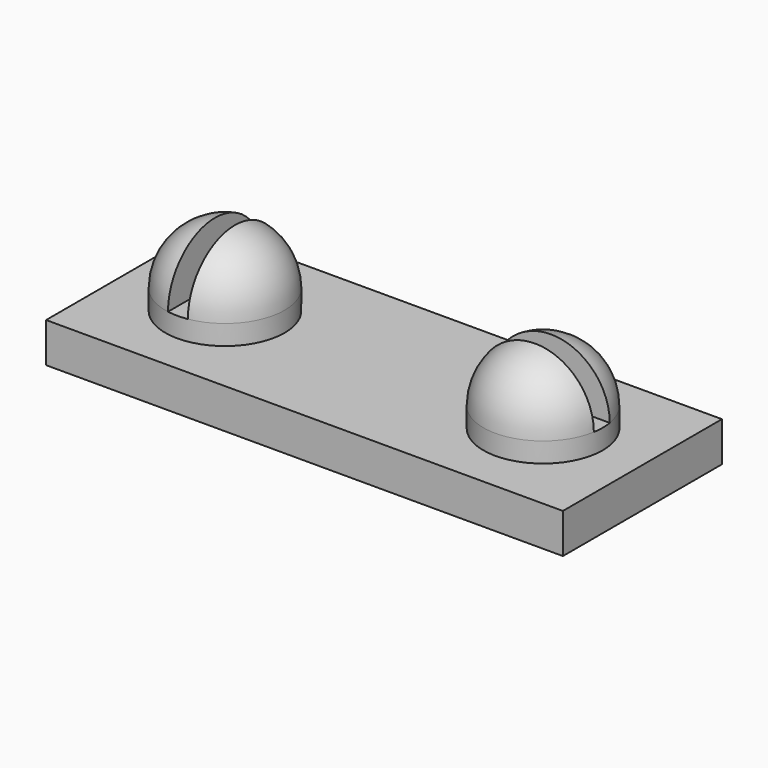
from build123d import *

# Parameters (mm, degrees)
SKETCH067_W     = 13
SKETCH067_H     = 5
PAD034_DEPTH    = 1
SKETCH068_R     = 1.5
PAD035_DEPTH    = 2
FILLET009_R     = 1.5
SKETCH069_W     = 0.5
SKETCH069_H     = 4
SKETCH069_W_2   = 4
SKETCH069_H_2   = 0.5
POCKET023_DEPTH = 1.5


with BuildPart() as part:
    # Sketch067 (on Face1 of CopyPocket) → Pad034 (new body)
    with BuildSketch(Plane.XY.offset(8.15)):
        with Locations((7, -24)):
            Rectangle(SKETCH067_W, SKETCH067_H)
    extrude(amount=PAD034_DEPTH)

    # Sketch068 (on Face6 of Pad034) → Pad035 (join)
    with BuildSketch(Plane.XY.offset(9.15)):
        with Locations((3, -24)):
            Circle(SKETCH068_R)
        with Locations((11, -24)):
            Circle(SKETCH068_R)
    extrude(amount=PAD035_DEPTH)

    # Fillet009
    fillet009_edges = [part.edges().sort_by_distance(p)[0] for p in [
        (9.5, -24, 11.15),
        (1.5, -24, 11.15),
    ]]
    fillet(fillet009_edges, radius=FILLET009_R)

    # Sketch069 (on Face12 of Fillet009) → Pocket023 (cut)
    with BuildSketch(Plane.XY.offset(11.15)):
        with Locations((3, -24)):
            Rectangle(SKETCH069_W, SKETCH069_H)
        with Locations((11, -24)):
            Rectangle(SKETCH069_W_2, SKETCH069_H_2)
    extrude(amount=-POCKET023_DEPTH, mode=Mode.SUBTRACT)


solid = part.part
